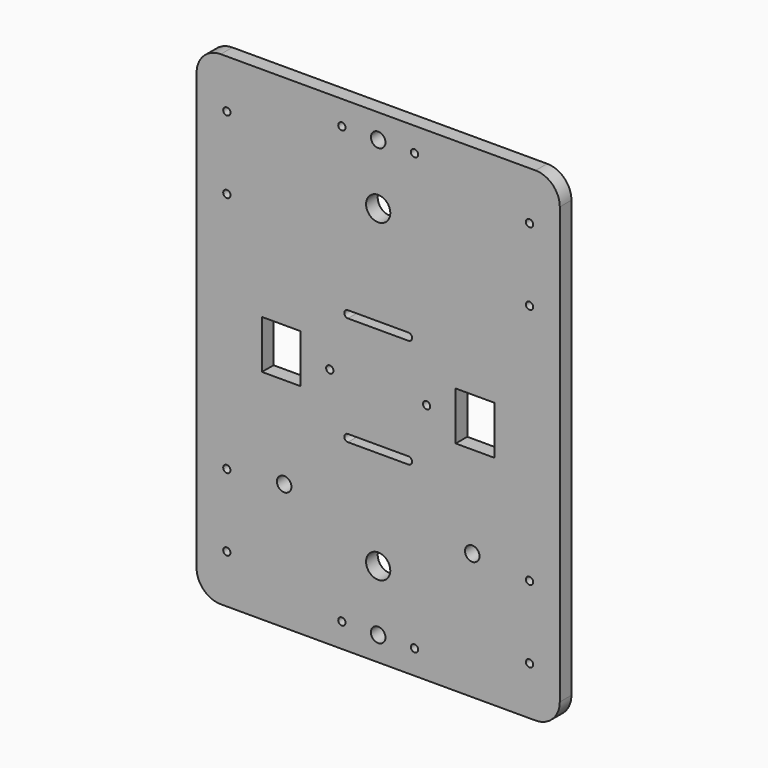
from build123d import *

# Parameters (mm, degrees)
F0_W          = 150
F0_H          = 200
F1_DEPTH      = 3
F1_DEPTH_BACK = 3
F2_R          = 10
F4_D          = 3
F4_DEPTH      = 12
F5_W          = 16
F5_H          = 20
F5_R          = 1.5
F5_R_2        = 5
F5_R_3        = 3
F6_DEPTH      = 25


with BuildPart() as f1:
    # F0 (on Front) → F1 (new body, two sides)
    with BuildSketch(Plane.XZ) as f1_sk:
        Rectangle(F0_W, F0_H)
    extrude(amount=F1_DEPTH)
    extrude(f1_sk.sketch, amount=-F1_DEPTH_BACK)

    # F2
    f2_edges = [f1.edges().sort_by_distance(p)[0] for p in [
        (-75, 0, -100),
        (75, 0, -100),
        (75, 0, 100),
        (-75, 0, 100),
    ]]
    fillet(f2_edges, radius=F2_R)

    # F4
    with Locations(Plane.XZ.offset(3)):
        with Locations((62.5, -80), (62.5, -50), (62.5, 50), (62.5, 80), (-62.5, 80), (-62.5, 50), (-62.5, -50), (-62.5, -80)):
            Hole(F4_D / 2, depth=F4_DEPTH)

    # F5 (on face) → F6 (cut)
    with BuildSketch(Plane.XZ.offset(3)):
        with Locations((-40, 0)):
            Rectangle(F5_W, F5_H)
        with BuildLine():
            ThreePointArc((12.5, 21), (14, 22.5), (12.5, 24))
            Line((12.5, 24), (-12.5, 24))
            ThreePointArc((-12.5, 24), (-14, 22.5), (-12.5, 21))
            Line((-12.5, 21), (12.5, 21))
        make_face()
        with BuildLine():
            ThreePointArc((12.5, -24), (14, -22.5), (12.5, -21))
            Line((12.5, -21), (-12.5, -21))
            ThreePointArc((-12.5, -21), (-14, -22.5), (-12.5, -24))
            Line((-12.5, -24), (12.5, -24))
        make_face()
        with Locations((40, 0)):
            Rectangle(F5_W, F5_H)
        with Locations((20, 0)):
            Circle(F5_R)
        with Locations((0, -65)):
            Circle(F5_R_2)
        with Locations((-38.842574, -47.822315)):
            Circle(F5_R_3)
        with Locations((38.842574, -47.822315)):
            Circle(F5_R_3)
        with Locations((0, -90)):
            Circle(F5_R_3)
        with Locations((-20, 0)):
            Circle(F5_R)
        with Locations((15, -90)):
            Circle(F5_R)
        with Locations((-15, -90)):
            Circle(F5_R)
        with Locations((0, 65)):
            Circle(F5_R_2)
        with Locations((0, 90)):
            Circle(F5_R_3)
        with Locations((-15, 90)):
            Circle(F5_R)
        with Locations((15, 90)):
            Circle(F5_R)
    extrude(amount=-F6_DEPTH, mode=Mode.SUBTRACT)


solid = f1.part
